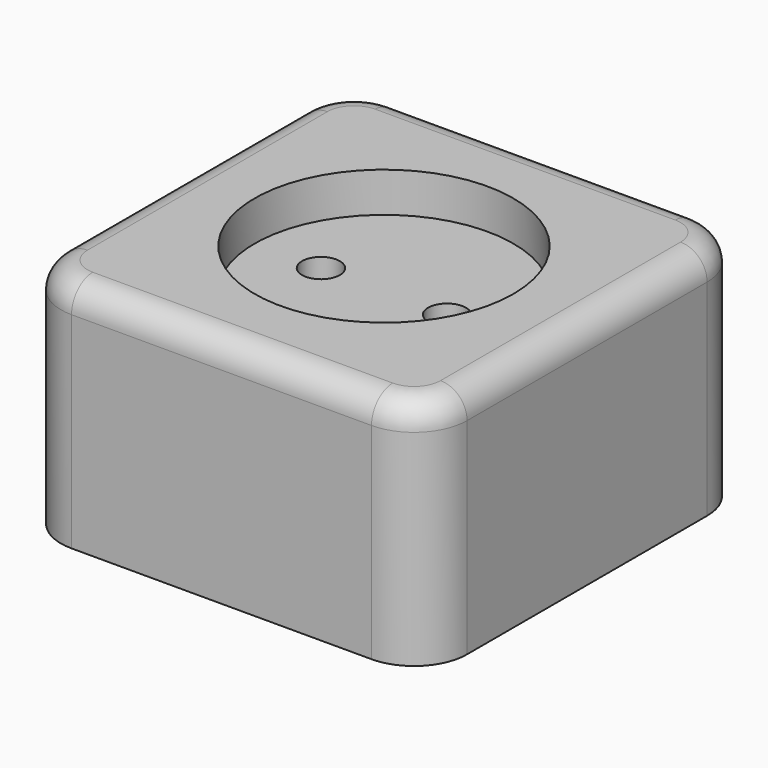
from build123d import *

# Parameters (mm, degrees)
PAD_DEPTH               = 35
POCKET_DEPTH            = 25
SKETCH002_W             = 6.4
SKETCH002_H             = 2.5
PAD001_DEPTH            = 9
SKETCH003_R             = 1.55
PAD002_DEPTH            = 9
PAD003_DEPTH            = 33
SKETCH002_MIRRORED_2_W  = 6.4
SKETCH002_MIRRORED_2_H  = 2.5
PAD001_MIRRORED_2_DEPTH = 9
PAD003_MIRRORED_2_DEPTH = 33
SKETCH003_MIRRORED_2_R  = 1.55
PAD002_MIRRORED_2_DEPTH = 9
POCKET001_DEPTH         = 10
PAD004_DEPTH            = 7
POCKET002_DEPTH         = 10
SKETCH008_W             = 19.5
SKETCH008_H             = 6
SKETCH009_R             = 2.85
POCKET003_DEPTH         = 0.001
POCKET003_DEPTH_BACK    = -35.001
FILLET_R                = 4


with BuildPart() as part:
    # Sketch → Pad (new body)
    with BuildSketch(Plane.XY):
        with BuildLine():
            Line((-22.6, 30.6), (22.6, 30.6))
            ThreePointArc((30.6, 22.6), (28.256854, 28.256854), (22.6, 30.6))
            Line((30.6, 22.6), (30.6, -22.6))
            ThreePointArc((22.6, -30.6), (28.256854, -28.256854), (30.6, -22.6))
            Line((22.6, -30.6), (-22.6, -30.6))
            ThreePointArc((-30.6, -22.6), (-28.256854, -28.256854), (-22.6, -30.6))
            Line((-30.6, -22.6), (-30.6, 22.6))
            ThreePointArc((-22.6, 30.6), (-28.256854, 28.256854), (-30.6, 22.6))
        make_face()
    extrude(amount=PAD_DEPTH)

    # Sketch001 → Pocket (cut)
    with BuildSketch(Plane.XY):
        with BuildLine():
            Line((-22.6, 28.3), (22.6, 28.3))
            ThreePointArc((28.3, 22.6), (26.630509, 26.630509), (22.6, 28.3))
            Line((28.3, 22.6), (28.3, -22.6))
            ThreePointArc((22.6, -28.3), (26.630509, -26.630509), (28.3, -22.6))
            Line((22.6, -28.3), (-22.6, -28.3))
            ThreePointArc((-28.3, -22.6), (-26.630509, -26.630509), (-22.6, -28.3))
            Line((-28.3, -22.6), (-28.3, 22.6))
            ThreePointArc((-22.6, 28.3), (-26.630509, 26.630509), (-28.3, 22.6))
        make_face()
    extrude(amount=POCKET_DEPTH, mode=Mode.SUBTRACT)

    # Sketch002 → Pad001 (join)
    with BuildSketch(Plane.XY):
        with Locations((16.3, 27.35)):
            Rectangle(SKETCH002_W, SKETCH002_H)
    pad001 = extrude(amount=PAD001_DEPTH)

    # Sketch003 → Pad002 (join)
    with BuildSketch(Plane.XY):
        with Locations((28.1, 15.6)):
            Circle(SKETCH003_R)
    pad002 = extrude(amount=PAD002_DEPTH)

    # Sketch004 → Pad003 (join)
    with BuildSketch(Plane.XY):
        with BuildLine():
            Line((21.8, 3.3), (12.7, 3.3))
            Line((12.7, 3.3), (12.7, 5.5))
            ThreePointArc((14.7, 7.5), (13.285786, 6.914214), (12.7, 5.5))
            Line((14.7, 7.5), (19.8, 7.5))
            ThreePointArc((21.8, 5.5), (21.214214, 6.914214), (19.8, 7.5))
            Line((21.8, 5.5), (21.8, 3.3))
        make_face()
    pad003 = extrude(amount=PAD003_DEPTH)

    # Sketch002 Mirrored 2 → Pad001 Mirrored 2 (add)
    with BuildSketch(Plane(origin=(0, 0, 0), x_dir=(-1, 0, 0), z_dir=(0, 0, -1))):
        with Locations((16.3, 27.35)):
            Rectangle(SKETCH002_MIRRORED_2_W, SKETCH002_MIRRORED_2_H)
    pad001_mirrored_2 = extrude(amount=-PAD001_MIRRORED_2_DEPTH)

    # Sketch004 Mirrored 2 → Pad003 Mirrored 2 (add)
    with BuildSketch(Plane(origin=(0, 0, 0), x_dir=(-1, 0, 0), z_dir=(0, 0, -1))):
        with BuildLine():
            Line((21.8, 3.3), (12.7, 3.3))
            Line((12.7, 3.3), (12.7, 5.5))
            ThreePointArc((14.7, 7.5), (13.285786, 6.914214), (12.7, 5.5))
            Line((14.7, 7.5), (19.8, 7.5))
            ThreePointArc((21.8, 5.5), (21.214214, 6.914214), (19.8, 7.5))
            Line((21.8, 5.5), (21.8, 3.3))
        make_face()
    pad003_mirrored_2 = extrude(amount=-PAD003_MIRRORED_2_DEPTH)

    # Sketch003 Mirrored 2 → Pad002 Mirrored 2 (add)
    with BuildSketch(Plane(origin=(0, 0, 0), x_dir=(-1, 0, 0), z_dir=(0, 0, -1))):
        with Locations((28.1, 15.6)):
            Circle(SKETCH003_MIRRORED_2_R)
    pad002_mirrored_2 = extrude(amount=-PAD002_MIRRORED_2_DEPTH)

    # Mirrored001: Pad001, Pad003, Pad002, Pad001 Mirrored 2, Pad003 Mirrored 2, Pad002 Mirrored 2 across XZ
    add(pad001.mirror(Plane.XZ))
    add(pad003.mirror(Plane.XZ))
    add(pad002.mirror(Plane.XZ))
    add(pad001_mirrored_2.mirror(Plane.XZ))
    add(pad003_mirrored_2.mirror(Plane.XZ))
    add(pad002_mirrored_2.mirror(Plane.XZ))

    # Sketch005 → Pocket001 (cut, symmetric)
    with BuildSketch(Plane.XZ):
        Polygon((-12.75, 1), (12.75, 1), (17.5, 0), (-17.5, 0), align=None)
    extrude(amount=POCKET001_DEPTH, both=True, mode=Mode.SUBTRACT)

    # Sketch006 → Pad004 (join)
    with BuildSketch(Plane.XY.offset(2)):
        with BuildLine():
            Line((23.95, 5), (12.95, 5))
            Line((12.95, 5), (12.95, -5))
            Line((12.95, -5), (23.95, -5))
            Line((23.95, -5), (23.95, -2.25))
            Line((19, -2.25), (23.95, -2.25))
            ThreePointArc((19, 2.25), (16.75, 0), (19, -2.25))
            Line((19, 2.25), (23.95, 2.25))
            Line((23.95, 2.25), (23.95, 5))
        make_face()
    pad004 = extrude(amount=PAD004_DEPTH)

    # Sketch007 → Pocket002 (cut)
    with BuildSketch(Plane.XY.offset(9)):
        with BuildLine():
            ThreePointArc((19, 5), (14, 0), (19, -5))
            Line((19, -5), (25, -5))
            Line((25, 5), (25, -5))
            Line((19, 5), (25, 5))
        make_face()
    pocket002 = extrude(amount=POCKET002_DEPTH, mode=Mode.SUBTRACT)

    # Mirrored002: Pad004, Pocket002 across YZ
    add(pad004.mirror(Plane.YZ))
    add(pocket002.mirror(Plane.YZ), mode=Mode.SUBTRACT)

    # Sketch008 → Groove (revolve, cut)
    with BuildSketch(Plane.XZ):
        with Locations((9.75, 32)):
            Rectangle(SKETCH008_W, SKETCH008_H)
    revolve(axis=Axis((0, 0, 0), (0, 0, 1)), mode=Mode.SUBTRACT)

    # Sketch009 → Pocket003 (cut, two sides)
    with BuildSketch(Plane.XY) as pocket003_sk:
        with Locations((9.5, 0)):
            Circle(SKETCH009_R)
        with Locations((-9.5, 0)):
            Circle(SKETCH009_R)
    extrude(amount=-POCKET003_DEPTH, mode=Mode.SUBTRACT)
    extrude(pocket003_sk.sketch, amount=-POCKET003_DEPTH_BACK, mode=Mode.SUBTRACT)

    # Fillet
    fillet_edges = [part.edges().sort_by_distance(p)[0] for p in [
        (0, -30.6, 35),
    ]]
    fillet(fillet_edges, radius=FILLET_R)


solid = part.part
